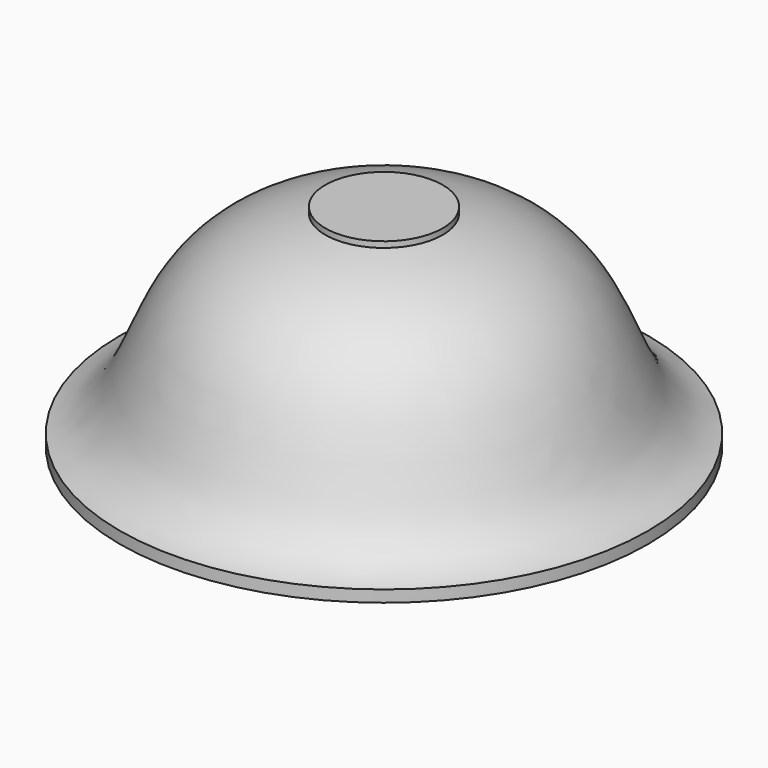
from build123d import *

# Parameters (mm, degrees)
F1_FACE_R = 10
F2_DEPTH  = 1


with BuildPart() as f1:
    # F0 (on Front) → F1 (revolve)
    with BuildSketch(Plane.XZ):
        with BuildLine():
            Line((0, 35), (0, 0))
            Line((0, 0), (45, 0))
            Line((45, 0), (45, 2))
            add(Edge.make_bspline(
                [(10, 35), (39.007101, 29.562383), (30.775309, 5.353372), (45, 2)],
                knots=[0, 0, 0, 0, 48.104054, 48.104054, 48.104054, 48.104054], degree=3))
            Line((10, 35), (0, 35))
        make_face()
    revolve(axis=Axis((0, 0, 17.5), (0, 0, 1)))

    # F1_face (on face) → F2 (join)
    with BuildSketch(Plane.XY.offset(35)):
        Circle(F1_FACE_R)
    extrude(amount=F2_DEPTH)


solid = f1.part
